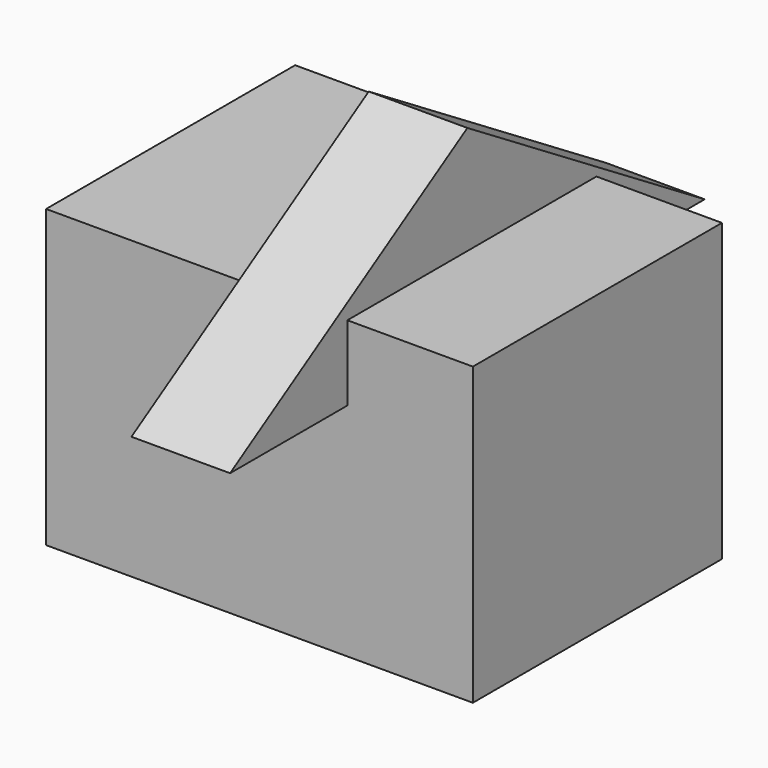
from build123d import *

# Parameters (mm, degrees)
F2_DEPTH = 76.2
F0_W     = 109.8862290382
F0_H     = 80.1557414234
F4_DEPTH = 25.4


with BuildPart() as f2:
    # F1 (on face) → F2 (new body)
    with BuildSketch(Plane.XY):
        Polygon((54.7973737121, 37.7460680902), (-49.8422943056, 38.9119684696), (-49.8422943056, -36.5801639855), (54.7973737121, -36.5801639855), align=None)
    extrude(amount=F2_DEPTH)


with BuildPart() as f2b:
    # F0 (on Top) → F2, piece 2 (new body)
    with BuildSketch(Plane.XY):
        with Locations((2.7690157294, 1.4573764056)):
            Rectangle(F0_W, F0_H)
    extrude(amount=F2_DEPTH)


with BuildPart() as f4:
    # F3 (on Right) → F4 (new body)
    with BuildSketch(Plane.YZ):
        Polygon((0, 104.0914952755), (-76.366558671, 56.8724796176), (76.366558671, 56.8724796176), align=None)
    extrude(amount=F4_DEPTH)


solid = Compound([f2.part, f2b.part, f4.part])
